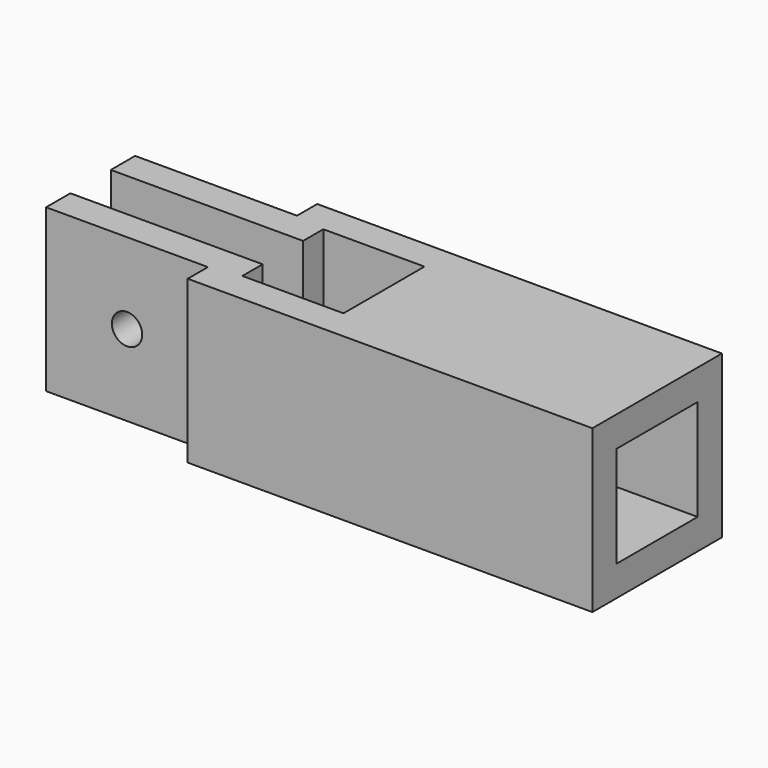
from build123d import *

# Parameters (mm, degrees)
F0_W     = 16
F0_H     = 16
F0_W_2   = 10
F0_H_2   = 10
F1_DEPTH = 24
F2_W     = 16
F2_H     = 16
F2_W_2   = 10
F2_H_2   = 10
F3_DEPTH = 16
F4_W     = 3
F4_H     = 5
F5_DEPTH = 25
F6_W     = 3
F6_H     = 16
F7_DEPTH = 16
F8_R     = 1.5
F9_DEPTH = 13.501


with BuildPart() as f1:
    # F0 (on Right) → F1 (new body)
    with BuildSketch(Plane.YZ):
        Rectangle(F0_W, F0_H)
        Rectangle(F0_W_2, F0_H_2, mode=Mode.SUBTRACT)
    extrude(amount=F1_DEPTH)

    # F2 (on face) → F3 (join)
    with BuildSketch(Plane.XY.offset(8)):
        with Locations((-8, 0)):
            Rectangle(F2_W, F2_H)
        with Locations((-8, 0)):
            Rectangle(F2_W_2, F2_H_2, mode=Mode.SUBTRACT)
    extrude(amount=-F3_DEPTH)

    # F4 (on face) → F5 (cut)
    with BuildSketch(Plane.XY.offset(8)):
        with Locations((-14.5, 0)):
            Rectangle(F4_W, F4_H)
    extrude(amount=-F5_DEPTH, mode=Mode.SUBTRACT)

    # F6 (on face) → F7 (join)
    with BuildSketch(Plane(origin=(-16, 0, 0), x_dir=(0, -1, 0), z_dir=(-1, 0, 0))):
        with Locations((-4, 0)):
            Rectangle(F6_W, F6_H)
        with Locations((4, 0)):
            Rectangle(F6_W, F6_H)
    extrude(amount=F7_DEPTH)

    # F8 (on face) → F9 (cut, through all)
    with BuildSketch(Plane.XZ.offset(5.5)):
        with Locations((-24, 0)):
            Circle(F8_R)
    extrude(amount=-F9_DEPTH, mode=Mode.SUBTRACT)


solid = f1.part
